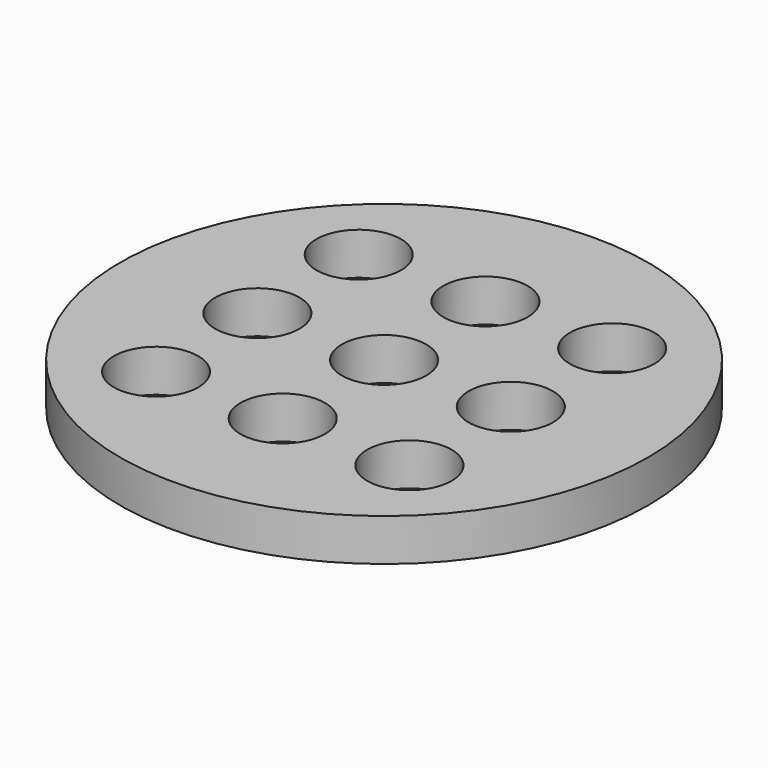
from build123d import *

# Parameters (mm, degrees)
F0_R     = 62.5
F0_R_2   = 10
F1_DEPTH = 10


with BuildPart() as f1:
    # F0 (on Top) → F1 (new body)
    with BuildSketch(Plane.XY):
        Circle(F0_R)
        with Locations((-30, -30)):
            Circle(F0_R_2, mode=Mode.SUBTRACT)
        with Locations((0, -30)):
            Circle(F0_R_2, mode=Mode.SUBTRACT)
        with Locations((30, -30)):
            Circle(F0_R_2, mode=Mode.SUBTRACT)
        with Locations((-30, 0)):
            Circle(F0_R_2, mode=Mode.SUBTRACT)
        with Locations((-30, 30)):
            Circle(F0_R_2, mode=Mode.SUBTRACT)
        Circle(F0_R_2, mode=Mode.SUBTRACT)
        with Locations((30, 0)):
            Circle(F0_R_2, mode=Mode.SUBTRACT)
        with Locations((0, 30)):
            Circle(F0_R_2, mode=Mode.SUBTRACT)
        with Locations((30, 30)):
            Circle(F0_R_2, mode=Mode.SUBTRACT)
    extrude(amount=F1_DEPTH)


solid = f1.part
